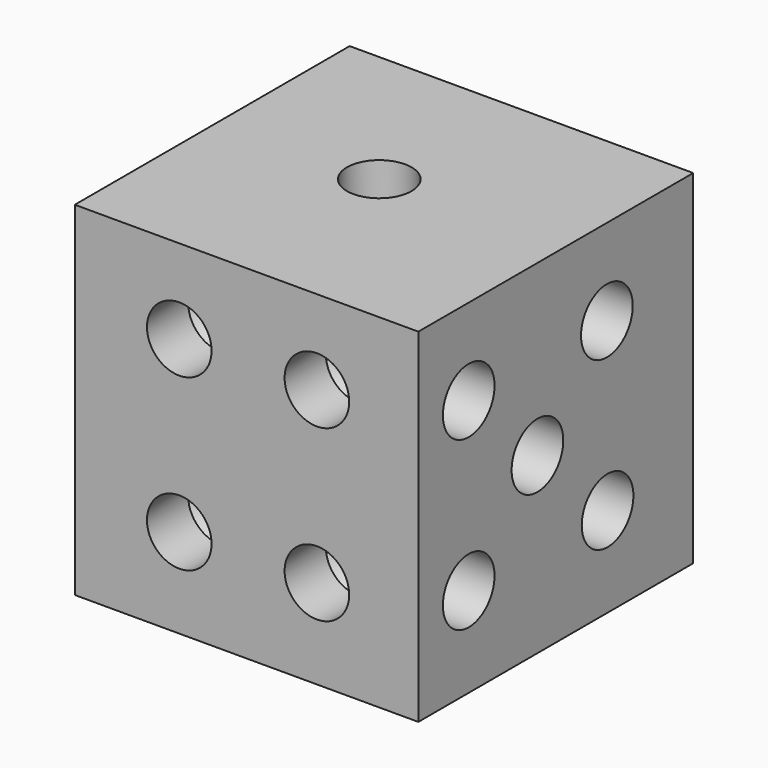
from build123d import *

# Parameters (mm, degrees)
F0_W      = 25.4
F0_H      = 25.4
F1_DEPTH  = 25.4
F3_D      = 4.7752
F3_DEPTH  = 3.81
F3_TIP    = 1.434614814
F6_D      = 4.7752
F6_DEPTH  = 3.81
F6_TIP    = 1.434614814
F11_D     = 4.7752
F11_DEPTH = 3.81
F11_TIP   = 1.434614814
F14_D     = 4.7752
F14_DEPTH = 3.81
F14_TIP   = 1.434614814
F15_D     = 4.7752
F15_DEPTH = 3.81
F15_TIP   = 1.434614814
F18_D     = 4.7752
F18_DEPTH = 3.81
F18_TIP   = 1.434614814


with BuildPart() as f1:
    # F0 (on Top) → F1 (new body)
    with BuildSketch(Plane.XY):
        with Locations((12.7, 12.7)):
            Rectangle(F0_W, F0_H)
    extrude(amount=F1_DEPTH)

    # F3
    with Locations(Plane.XY.offset(25.4)):
        with Locations((11.7311347276, 13.4724741802)):
            Hole(F3_D / 2, depth=F3_DEPTH)
            with Locations((0, 0, -(F3_DEPTH + F3_TIP / 2))):  # 118° drill point
                Cone(0, F3_D / 2, F3_TIP, mode=Mode.SUBTRACT)

    # F6
    with Locations(Plane(origin=(0, 0, 0), x_dir=(1, 0, 0), z_dir=(0, 0, -1))):
        with Locations((7.5152567588, -6.1405156739), (17.7800003439, -6.1405156739), (7.5152567588, -12.3726800084), (17.7800003439, -12.3726800084), (17.7800003439, -18.7881439924), (7.5152567588, -18.7881439924)):
            Hole(F6_D / 2, depth=F6_DEPTH)
            with Locations((0, 0, -(F6_DEPTH + F6_TIP / 2))):  # 118° drill point
                Cone(0, F6_D / 2, F6_TIP, mode=Mode.SUBTRACT)

    # F11
    with Locations(Plane(origin=(0, 0, 0), x_dir=(0, -1, 0), z_dir=(-1, 0, 0))):
        with Locations((-17.9789844365, 18.0393166689), (-6.9078497357, 6.9310304664)):
            Hole(F11_D / 2, depth=F11_DEPTH)
            with Locations((0, 0, -(F11_DEPTH + F11_TIP / 2))):  # 118° drill point
                Cone(0, F11_D / 2, F11_TIP, mode=Mode.SUBTRACT)

    # F14
    with Locations(Plane(origin=(0, 25.4, 0), x_dir=(-1, 0, 0), z_dir=(0, 1, 0))):
        with Locations((-4.7665690069, 20.8159134085), (-12.8613589332, 12.7752926201), (-20.2033963729, 5.4823870097)):
            Hole(F14_D / 2, depth=F14_DEPTH)
            with Locations((0, 0, -(F14_DEPTH + F14_TIP / 2))):  # 118° drill point
                Cone(0, F14_D / 2, F14_TIP, mode=Mode.SUBTRACT)

    # F15
    with Locations(Plane.YZ.offset(25.4)):
        with Locations((4.6540303156, 19.0304033458), (4.6540303156, 6.6524622962), (11.0050151125, 12.8738358617), (17.4208078533, 19.0304033458), (17.4856130034, 6.6524622962)):
            Hole(F15_D / 2, depth=F15_DEPTH)
            with Locations((0, 0, -(F15_DEPTH + F15_TIP / 2))):  # 118° drill point
                Cone(0, F15_D / 2, F15_TIP, mode=Mode.SUBTRACT)

    # F18
    with Locations(Plane.XZ):
        with Locations((7.725846488, 19.1752817482), (17.8987849504, 19.1752817482), (17.8987849504, 6.6132424399), (7.725846488, 6.6132424399)):
            Hole(F18_D / 2, depth=F18_DEPTH)
            with Locations((0, 0, -(F18_DEPTH + F18_TIP / 2))):  # 118° drill point
                Cone(0, F18_D / 2, F18_TIP, mode=Mode.SUBTRACT)


solid = f1.part
